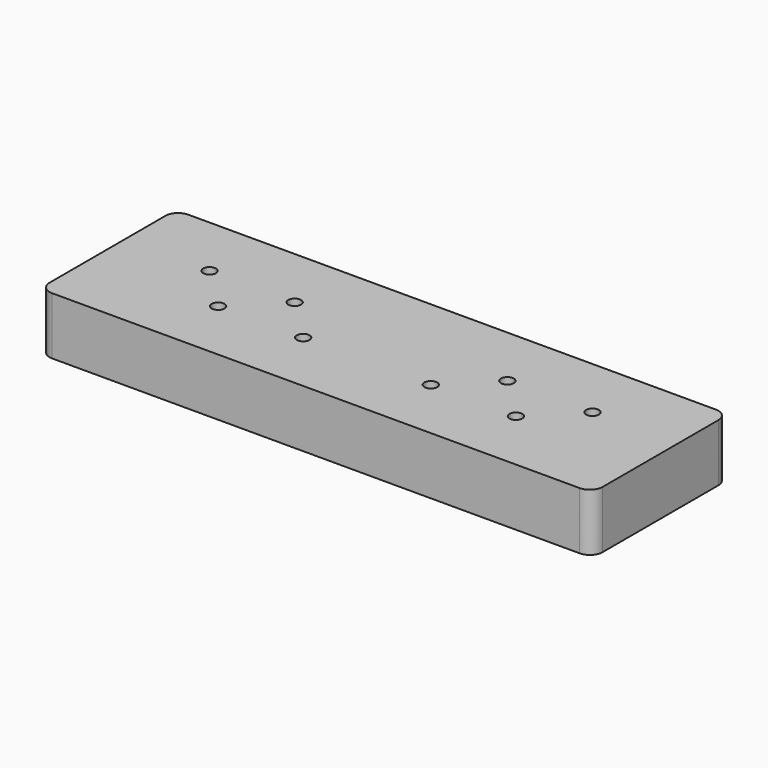
from build123d import *

# Parameters (mm, degrees)
SKETCH_W  = 130
SKETCH_H  = 40
SKETCH_R  = 1.5
PAD_DEPTH = 13.5
FILLET_R  = 3


with BuildPart() as part:
    # Sketch → Pad (new body)
    with BuildSketch(Plane.XY):
        with Locations((65, 20)):
            Rectangle(SKETCH_W, SKETCH_H)
        with Locations((20, 25)):
            Circle(SKETCH_R, mode=Mode.SUBTRACT)
        with Locations((40, 25)):
            Circle(SKETCH_R, mode=Mode.SUBTRACT)
        with Locations((30, 15)):
            Circle(SKETCH_R, mode=Mode.SUBTRACT)
        with Locations((50, 15)):
            Circle(SKETCH_R, mode=Mode.SUBTRACT)
        with Locations((110, 25)):
            Circle(SKETCH_R, mode=Mode.SUBTRACT)
        with Locations((90, 25)):
            Circle(SKETCH_R, mode=Mode.SUBTRACT)
        with Locations((100, 15)):
            Circle(SKETCH_R, mode=Mode.SUBTRACT)
        with Locations((80, 15)):
            Circle(SKETCH_R, mode=Mode.SUBTRACT)
    extrude(amount=PAD_DEPTH)

    # Fillet
    fillet_edges = [part.edges().sort_by_distance(p)[0] for p in [
        (0, 0, 6.75),
        (130, 0, 6.75),
        (130, 40, 6.75),
        (0, 40, 6.75),
    ]]
    fillet(fillet_edges, radius=FILLET_R)


solid = part.part
